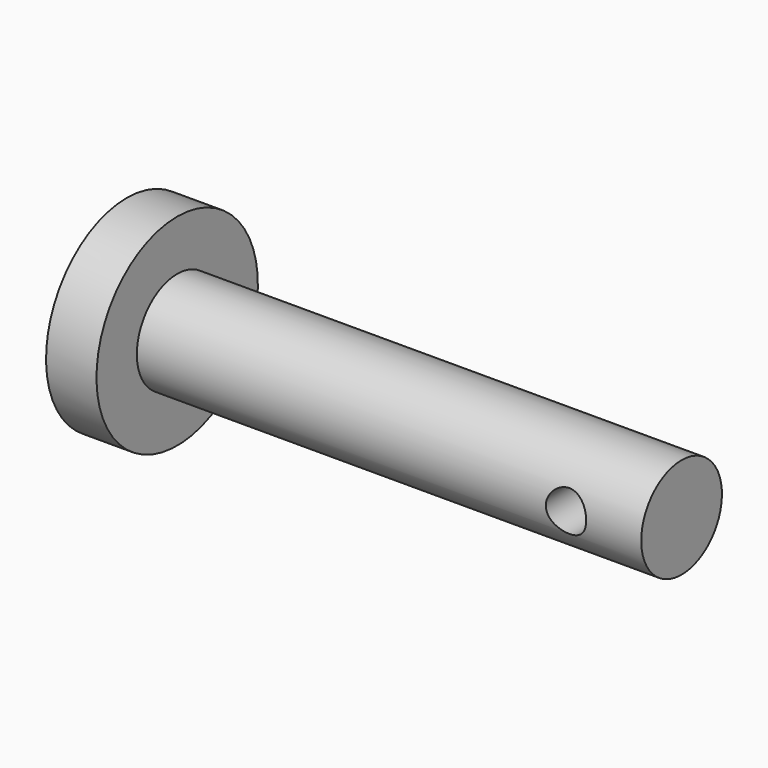
from build123d import *

# Parameters (mm, degrees)
F2_R     = 4
F3_DEPTH = 50


with BuildPart() as f1:
    # F0 (on Front) → F1 (revolve)
    with BuildSketch(Plane.XZ):
        Polygon((-75.087569, 20), (-75.087569, 0), (34.912431, 0), (34.912431, 10), (-65.087569, 10), (-65.087569, 20), align=None)
    revolve(axis=Axis((-20.087569, 0, 0), (-1, 0, 0)))

    # F2 (on Front) → F3 (cut, symmetric)
    with BuildSketch(Plane.XZ):
        with Locations((20, 0)):
            Circle(F2_R)
    extrude(amount=F3_DEPTH, both=True, mode=Mode.SUBTRACT)


solid = f1.part
